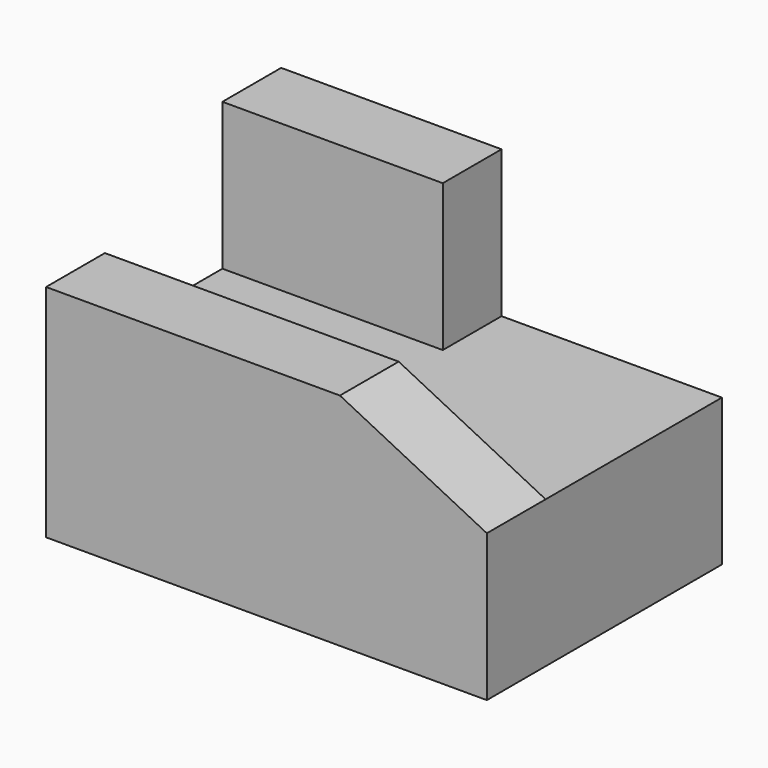
from build123d import *

# Parameters (mm, degrees)
SKETCH_W     = 60
SKETCH_H     = 40
PAD_DEPTH    = 20
PAD001_DEPTH = 10
SKETCH002_W  = 30
SKETCH002_H  = 10
PAD002_DEPTH = 20


with BuildPart() as part:
    # Sketch → Pad (new body)
    with BuildSketch(Plane.XY):
        Rectangle(SKETCH_W, SKETCH_H)
    extrude(amount=PAD_DEPTH)

    # Sketch001 (on Face1 of Pad) → Pad001 (join)
    with BuildSketch(Plane.XZ.offset(20)):
        Polygon((-30, 20), (-30, 30), (10, 30), (30, 20), align=None)
    extrude(amount=-PAD001_DEPTH)

    # Sketch002 (on Face4 of Pad001) → Pad002 (join)
    with BuildSketch(Plane.XY.offset(20)):
        with Locations((-15, 15)):
            Rectangle(SKETCH002_W, SKETCH002_H)
    extrude(amount=PAD002_DEPTH)


solid = part.part
